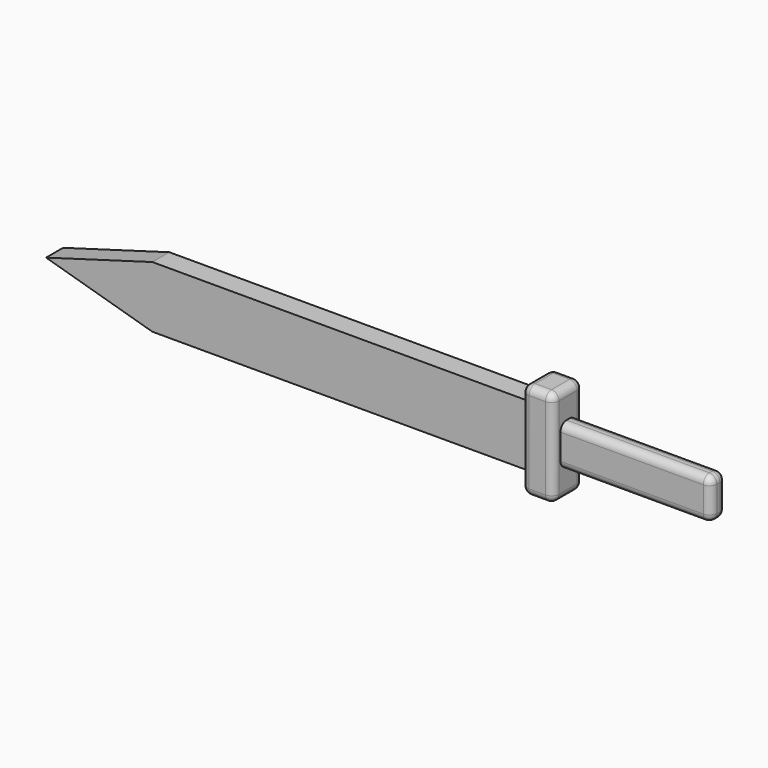
from build123d import *

# Parameters (mm, degrees)
F0_W     = 21.2045684457
F0_H     = 21.2045684457
F0_H_2   = 23.2402067631
F1_DEPTH = 25.4
F2_W     = 12.7
F2_H     = 27.5493436545
F3_DEPTH = 101.6
F4_W     = 14.3764
F4_H     = 41.4685436545
F5_DEPTH = 254
F7_DEPTH = 14.3764
F8_R     = 5.08


with BuildPart() as f1:
    # F0 (on Front) → F1 (new body)
    with BuildSketch(Plane.XZ):
        with Locations((10.6022842228, 33.842490986)):
            Rectangle(F0_W, F0_H)
        with Locations((10.6022842228, -10.6022842228)):
            Rectangle(F0_W, F0_H)
        with Locations((10.6022842228, 11.6201033816)):
            Rectangle(F0_W, F0_H_2)
    extrude(amount=F1_DEPTH)

    # F2 (on face) → F3 (join)
    with BuildSketch(Plane.YZ.offset(21.2045684457)):
        with Locations((-12.7, 11.6201033816)):
            Rectangle(F2_W, F2_H)
    extrude(amount=F3_DEPTH)

    # F4 (on face) → F5 (join)
    with BuildSketch(Plane(origin=(0, 0, 0), x_dir=(0, -1, 0), z_dir=(-1, 0, 0))):
        with Locations((12.7, 11.6201033816)):
            Rectangle(F4_W, F4_H)
    extrude(amount=F5_DEPTH)

    # F6 (on face) → F7 (join)
    with BuildSketch(Plane.XZ.offset(19.8882)):
        Polygon((-254, -9.1141684457), (-254, 32.3543752088), (-325.8476853371, 11.6201033816), align=None)
    extrude(amount=-F7_DEPTH)

    # F8
    f8_edges = [f1.edges().sort_by_distance(p)[0] for p in [
        (21.204568, -25.4, 11.620103),
        (0, -25.4, 11.620103),
        (0, 0, 11.620103),
        (21.204568, 0, 11.620103),
        (10.602284, -25.4, 44.444775),
        (21.204568, -12.7, 44.444775),
        (10.602284, 0, 44.444775),
        (0, -12.7, 44.444775),
        (10.602284, -25.4, -21.204568),
        (21.204568, -12.7, -21.204568),
        (0, -12.7, -21.204568),
        (10.602284, 0, -21.204568),
        (122.804568, -19.05, 11.620103),
        (122.804568, -6.35, 11.620103),
        (122.804568, -12.7, -2.154568),
        (122.804568, -12.7, 25.394775),
        (72.004568, -19.05, 25.394775),
        (72.004568, -6.35, 25.394775),
        (72.004568, -19.05, -2.154568),
        (72.004568, -6.35, -2.154568),
    ]]
    fillet(f8_edges, radius=F8_R)


solid = f1.part
